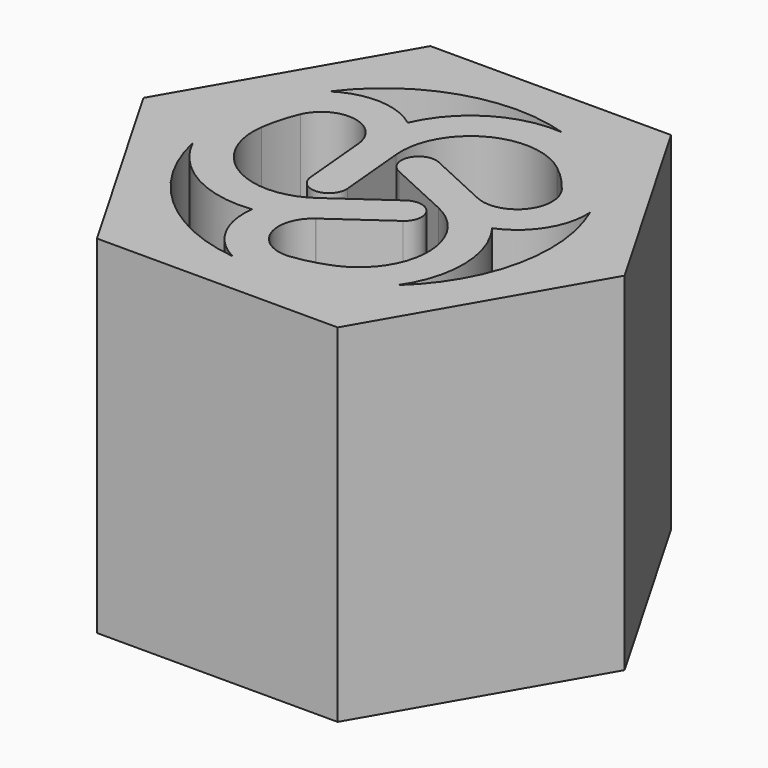
from build123d import *

# Parameters (mm, degrees)
F1_DEPTH = 10


with BuildPart() as f1:
    # F0 (on Top) → F1 (new body)
    with BuildSketch(Plane.XY):
        Polygon((3.464102, 6), (-3.464102, 6), (-6.928203, 0), (-3.464102, -6), (3.464102, -6), (6.928203, 0), align=None)
        with BuildLine():
            ThreePointArc((-0.54173, -4.769332), (-3.218595, -3.560989), (-4.690485, -1.019485))
            ThreePointArc((-4.690485, -1.019485), (-3.432213, -2.356022), (-1.630911, -2.709417))
            ThreePointArc((-1.630911, -2.709417), (-1.417251, -3.914354), (-0.54173, -4.769332))
        make_face(mode=Mode.SUBTRACT)
        with BuildLine():
            Line((1.986308, 0.885414), (0.209216, 1.704124))
            ThreePointArc((0.209216, 1.704124), (-0.454124, 1.459216), (-0.209216, 0.795876))
            Line((-0.209216, 0.795876), (1.593748, -0.034753))
            ThreePointArc((1.593748, -0.034753), (2.75641, -1.894851), (1.51377, -3.702499))
            ThreePointArc((1.51377, -3.702499), (1.000033, -3.872975), (0.467983, -3.97253))
            ThreePointArc((0.467983, -3.97253), (-0.580071, -3.344267), (-0.237933, -2.171206))
            ThreePointArc((-0.237933, -2.171206), (-0.232163, -2.167033), (-0.226363, -2.162901))
            Line((-0.226363, -2.162901), (1.371207, -1.033248))
            ThreePointArc((1.371207, -1.033248), (1.49078, -0.336325), (0.793857, -0.216752))
            Line((0.793857, -0.216752), (-0.826971, -1.36285))
            ThreePointArc((-0.826971, -1.36285), (-3.019194, -1.439695), (-3.963343, 0.540286))
            ThreePointArc((-3.963343, 0.540286), (-3.854111, 1.070434), (-3.674303, 1.580979))
            ThreePointArc((-3.674303, 1.580979), (-2.599148, 2.1734), (-1.759946, 1.277486))
            Line((-1.759946, 1.277486), (-1.580423, -0.670876))
            ThreePointArc((-1.580423, -0.670876), (-1.036656, -1.122891), (-0.584641, -0.579124))
            Line((-0.584641, -0.579124), (-0.766777, 1.397603))
            ThreePointArc((-0.766777, 1.397603), (0.262784, 3.334546), (2.449573, 3.162213))
            ThreePointArc((2.449573, 3.162213), (2.854078, 2.802541), (3.20632, 2.39155))
            ThreePointArc((3.20632, 2.39155), (3.186256, 1.169777), (1.999286, 0.879547))
            ThreePointArc((1.999286, 0.879547), (1.992787, 0.882458), (1.986308, 0.885414))
        make_face(mode=Mode.SUBTRACT)
        with BuildLine():
            ThreePointArc((3.228143, -3.552336), (3.756481, -1.794373), (3.161879, -0.057702))
            ThreePointArc((3.161879, -0.057702), (4.098556, 0.729802), (4.401228, 1.915514))
            ThreePointArc((4.401228, 1.915514), (4.693205, -1.006891), (3.228143, -3.552336))
        make_face(mode=Mode.SUBTRACT)
        with BuildLine():
            ThreePointArc((-3.859498, 2.853818), (-1.474328, 4.567971), (1.462906, 4.571641))
            ThreePointArc((1.462906, 4.571641), (-0.323966, 4.150419), (-1.530858, 2.767033))
            ThreePointArc((-1.530858, 2.767033), (-2.681235, 3.18455), (-3.859498, 2.853818))
        make_face(mode=Mode.SUBTRACT)
    extrude(amount=F1_DEPTH)


solid = f1.part
